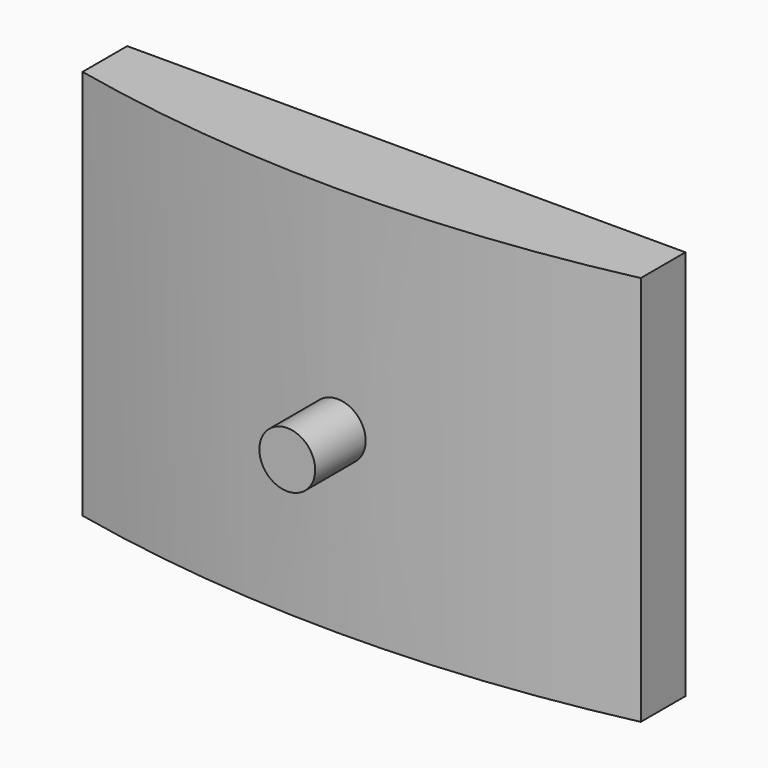
from build123d import *

# Parameters (mm, degrees)
CYLINDER157_R     = 2
CYLINDER157_DEPTH = 10
EXTRUDE038_DEPTH  = 28


with BuildPart() as cylinder157:
    # Cylinder157 → Cylinder157 (new body)
    with BuildSketch(Plane(origin=(0, -238, -147.25), x_dir=(1, 0, 0), z_dir=(0, -1, 0))):
        Circle(CYLINDER157_R)
    extrude(amount=CYLINDER157_DEPTH)


with BuildPart() as logoattach001:
    # Sketch056 → Extrude038 (new body)
    with BuildSketch(Plane.XY):
        with BuildLine():
            ThreePointArc((-20, -241.335918), (0, -243.5), (20, -241.335918))
            Line((20, -237.335918), (20, -241.335918))
            Line((-20, -237.335918), (20, -237.335918))
            Line((-20, -241.335918), (-20, -237.335918))
        make_face()
    extrude(amount=EXTRUDE038_DEPTH)


with BuildPart() as logoattach001_1:
    # Extrude038 placement: moved
    add(logoattach001.part.moved(Location((0, 0, -160))))

    # Fusion105: union Cylinder157
    add(cylinder157.part)


with BuildPart() as logoattach001_2:
    # Fusion105 placement: moved
    add(logoattach001_1.part.moved(Location((0, 0, 10))))


solid = logoattach001_2.part
